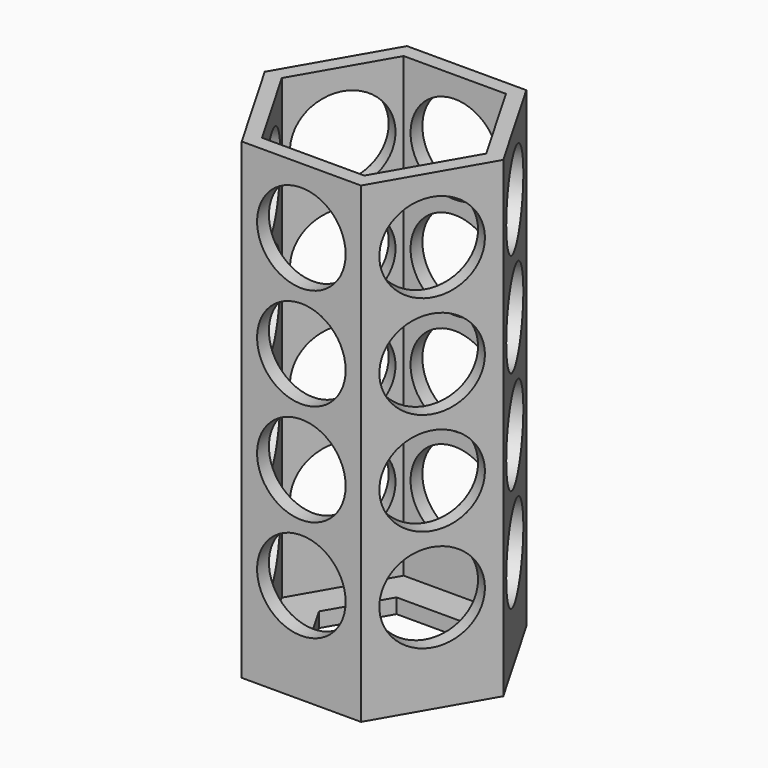
from build123d import *

# Parameters (mm, degrees)
F1_DEPTH  = 203.2
F2_DEPTH  = 6.35
F3_R      = 19.05
F6_DEPTH  = 101.6
F4_R      = 19.05
F7_DEPTH  = 101.6
F5_R      = 19.05
F8_DEPTH  = 101.6
F10_DEPTH = 25.4


with BuildPart() as f1:
    # F0 (on Top) → F1 (new body)
    with BuildSketch(Plane.XY):
        Polygon((25.6632194655, 44.45), (-25.6632194655, 44.45), (-51.326438931, 0), (-25.6632194655, -44.45), (25.6632194655, -44.45), (51.326438931, 0), align=None)
        Polygon((43.9940905122, 0), (21.9970452561, -38.1), (-21.9970452561, -38.1), (-43.9940905122, 0), (-21.9970452561, 38.1), (21.9970452561, 38.1), align=None, mode=Mode.SUBTRACT)
    extrude(amount=F1_DEPTH)

    # F0 (on Top) → F2 (join)
    with BuildSketch(Plane.XY):
        Polygon((-21.9970452561, -38.1), (21.9970452561, -38.1), (43.9940905122, 0), (21.9970452561, 38.1), (-21.9970452561, 38.1), (-43.9940905122, 0), align=None)
    extrude(amount=F2_DEPTH)

    # F3 (on face) → F6 (cut)
    with BuildSketch(Plane.XZ.offset(44.45)):
        with BuildLine():
            ThreePointArc((0, 194.056), (-13.4703841816, 161.5356158184), (19.05, 175.006))
            ThreePointArc((19.05, 175.006), (13.4703841816, 188.4763841816), (0, 194.056))
        make_face()
        with Locations((0, 131.11192)):
            Circle(F3_R)
        with Locations((0, 87.21784)):
            Circle(F3_R)
        with Locations((0, 43.32376)):
            Circle(F3_R)
    extrude(amount=-F6_DEPTH, mode=Mode.SUBTRACT)

    # F4 (on face) → F7 (cut)
    with BuildSketch(Plane(origin=(38.4948291982, -22.225, 0), x_dir=(0.5, 0.8660254038, 0), z_dir=(0.8660254038, -0.5, 0))):
        with BuildLine():
            ThreePointArc((0, 194.056), (-13.4703841816, 161.5356158184), (19.05, 175.006))
            ThreePointArc((19.05, 175.006), (13.4703841816, 188.4763841816), (0, 194.056))
        make_face()
        with Locations((0, 130.78592)):
            Circle(F4_R)
        with Locations((0, 86.56584)):
            Circle(F4_R)
        with Locations((0, 42.34576)):
            Circle(F4_R)
    extrude(amount=-F7_DEPTH, mode=Mode.SUBTRACT)

    # F5 (on face) → F8 (cut)
    with BuildSketch(Plane(origin=(-38.4948291982, -22.225, 0), x_dir=(0.5, -0.8660254038, 0), z_dir=(-0.8660254038, -0.5, 0))):
        with BuildLine():
            ThreePointArc((0, 194.056), (-13.4703841816, 161.5356158184), (19.05, 175.006))
            ThreePointArc((19.05, 175.006), (13.4703841816, 188.4763841816), (0, 194.056))
        make_face()
        with Locations((0, 130.41386)):
            Circle(F5_R)
        with Locations((0, 85.82172)):
            Circle(F5_R)
        with Locations((0, 41.22958)):
            Circle(F5_R)
    extrude(amount=-F8_DEPTH, mode=Mode.SUBTRACT)

    # F9 (on face) → F10 (cut)
    with BuildSketch(Plane(origin=(0, 0, 0), x_dir=(1, 0, 0), z_dir=(0, 0, -1))):
        Polygon((-14.0039394503, -24.255534634), (14.0039394503, -24.255534634), (28.0078789005, 0), (14.0039394503, 24.255534634), (-14.0039394503, 24.255534634), (-28.0078789005, 0), align=None)
    extrude(amount=-F10_DEPTH, mode=Mode.SUBTRACT)


solid = f1.part
